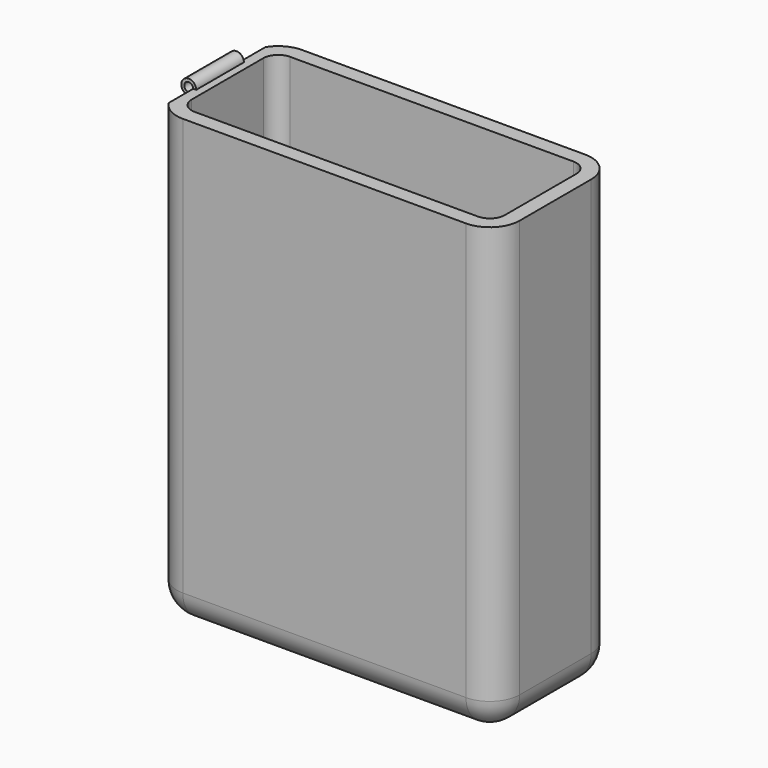
from build123d import *

# Parameters (mm, degrees)
F0_W     = 58.42
F0_H     = 76.2
F1_DEPTH = 25.4
F2_R     = 5.08
F3_T     = -2.54
F5_R     = 1.27
F6_DEPTH = 5.08
F7_R     = 1.27
F8_R     = 0.762
F9_DEPTH = 76.2


with BuildPart() as f1:
    # F0 (on Front) → F1 (new body)
    with BuildSketch(Plane.XZ):
        Rectangle(F0_W, F0_H)
    extrude(amount=F1_DEPTH)

    # F2
    f2_edges = [f1.edges().sort_by_distance(p)[0] for p in [
        (-29.21, -25.4, 0),
        (29.21, -25.4, 0),
        (29.21, 0, 0),
        (-29.21, 0, 0),
        (-29.21, -12.7, -38.1),
        (29.21, -12.7, -38.1),
        (0, 0, -38.1),
        (0, -25.4, -38.1),
    ]]
    fillet(f2_edges, radius=F2_R)

    # F3
    f3_openings = [f1.faces().sort_by_distance(p)[0] for p in [
        (0, -12.7, 38.1),
    ]]
    offset(amount=F3_T, openings=f3_openings)

    # F5 (on offset) → F6 (join, symmetric)
    with BuildSketch(Plane(origin=(0, -12.7, 0), x_dir=(-1, 0, 0), z_dir=(0, 1, 0))):
        with Locations((29.21, 38.1)):
            Circle(F5_R)
    extrude(amount=F6_DEPTH, both=True)

    # F7
    f7_edges = [f1.edges().sort_by_distance(p)[0] for p in [
        (-29.21, -12.7, 36.83),
    ]]
    fillet(f7_edges, radius=F7_R)

    # F8 (on face) → F9 (cut, symmetric)
    with BuildSketch(Plane(origin=(0, -7.62, 0), x_dir=(-1, 0, 0), z_dir=(0, 1, 0))):
        with Locations((29.21, 38.1)):
            Circle(F8_R)
    extrude(amount=F9_DEPTH, both=True, mode=Mode.SUBTRACT)


solid = f1.part
